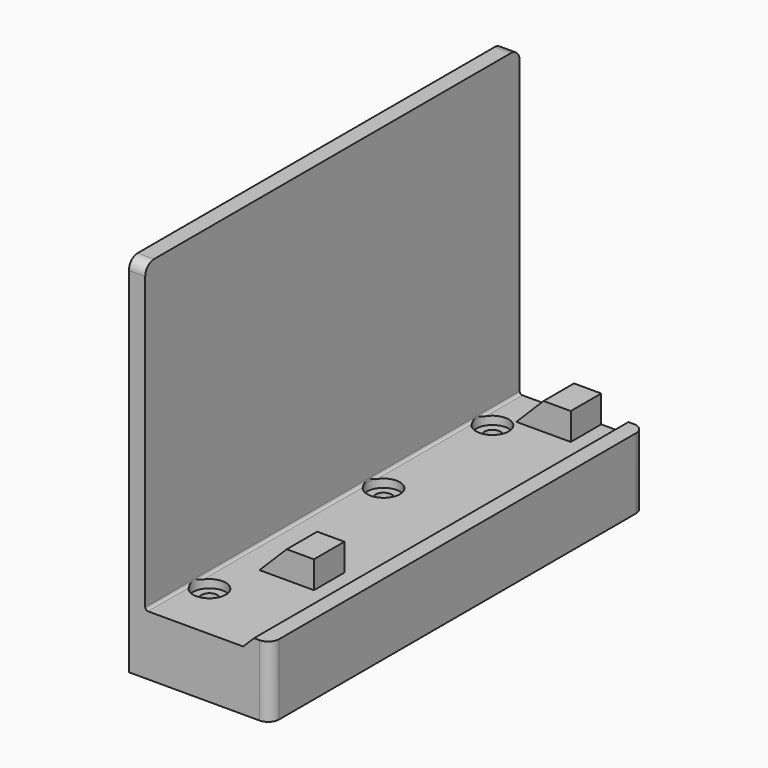
from build123d import *

# Parameters (mm, degrees)
F1_DEPTH  = 43
F2_R      = 4
F3_DEPTH  = 6
F4_R      = 1.5
F5_DEPTH  = 25
F4_R_2    = 3
F6_DEPTH  = 1.5
F7_W      = 10
F7_H      = 7
F8_DEPTH  = 5
F10_DEPTH = 50
F11_R     = 2


with BuildPart() as f1:
    # F0 (on Front) → F1 (new body, symmetric)
    with BuildSketch(Plane.XZ):
        with BuildLine():
            Line((0, 11.5), (0, 67))
            Line((0, 67), (-3, 67))
            Line((-3, 67), (-3, 0))
            Line((-3, 0), (23, 0))
            Line((23, 0), (23, 13))
            Line((23, 13), (20, 13))
            Line((20, 13), (18, 11))
            Line((18, 11), (0.5, 11))
            ThreePointArc((0.5, 11), (0.146447, 11.146447), (0, 11.5))
        make_face()
    extrude(amount=F1_DEPTH, both=True)

    # F2 (on face) → F3 (cut)
    with BuildSketch(Plane(origin=(0, 0, 0), x_dir=(1, 0, 0), z_dir=(0, 0, -1))):
        with Locations((3, -33)):
            Circle(F2_R)
        with Locations((3, -8)):
            Circle(F2_R)
        with Locations((3, 32)):
            Circle(F2_R)
    extrude(amount=-F3_DEPTH, mode=Mode.SUBTRACT)

    # F4 (on face) → F5 (cut)
    with BuildSketch(Plane.XY.offset(11)):
        with Locations((3, 33)):
            Circle(F4_R)
        with Locations((3, 8)):
            Circle(F4_R)
        with Locations((3, -32)):
            Circle(F4_R)
    extrude(amount=-F5_DEPTH, mode=Mode.SUBTRACT)

    # F4 (on face) → F6 (cut, symmetric)
    with BuildSketch(Plane.XY.offset(11)):
        with Locations((3, 8)):
            Circle(F4_R_2)
        with Locations((3, 8)):
            Circle(F4_R, mode=Mode.SUBTRACT)
        with Locations((3, 33)):
            Circle(F4_R_2)
        with Locations((3, 33)):
            Circle(F4_R, mode=Mode.SUBTRACT)
        with Locations((3, -32)):
            Circle(F4_R_2)
        with Locations((3, -32)):
            Circle(F4_R, mode=Mode.SUBTRACT)
    extrude(amount=F6_DEPTH, both=True, mode=Mode.SUBTRACT)

    # F7 (on face) → F8 (join)
    with BuildSketch(Plane.XY.offset(11)):
        with Locations((10, 39.5)):
            Rectangle(F7_W, F7_H)
        with Locations((10, -19.5)):
            Rectangle(F7_W, F7_H)
    extrude(amount=F8_DEPTH)

    # F9 (on Front) → F10 (cut, symmetric)
    with BuildSketch(Plane.XZ):
        Polygon((5, 19), (5, 11), (13, 19), align=None)
    extrude(amount=F10_DEPTH, both=True, mode=Mode.SUBTRACT)

    # F11
    f11_edges = [f1.edges().sort_by_distance(p)[0] for p in [
        (23, -43, 6.5),
        (23, 43, 6.5),
        (-1.5, -43, 67),
        (-1.5, 43, 67),
    ]]
    fillet(f11_edges, radius=F11_R)


solid = f1.part
